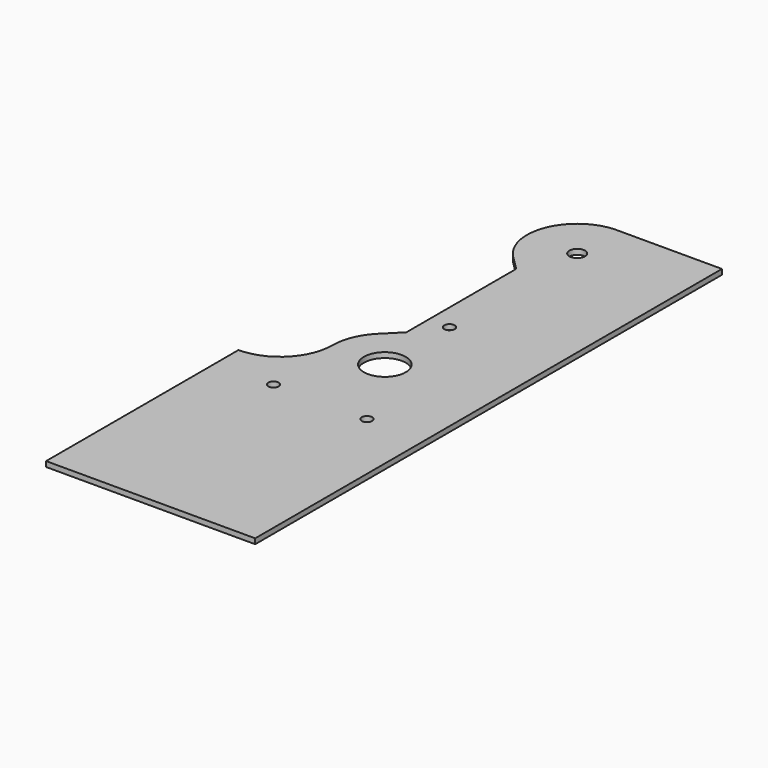
from build123d import *

# Parameters (mm, degrees)
F0_W     = 127
F0_H     = 252.73
F1_DEPTH = 3.175
F2_R     = 12.7
F2_R_2   = 3.175
F2_R_3   = 4.7625
F3_DEPTH = 3.176
F4_W     = 127
F4_H     = 3.175
F5_DEPTH = 101.6


with BuildPart() as f1:
    # F0 (on Top) → F1 (new body)
    with BuildSketch(Plane.XY):
        Rectangle(F0_W, F0_H)
    extrude(amount=F1_DEPTH)

    # F2 (on face) → F3 (cut, through all)
    with BuildSketch(Plane.XY.offset(3.175)):
        with BuildLine():
            Line((-12.7, 65.405), (-21.59, 74.295))
            ThreePointArc((-21.59, 74.295), (-28.540289, 106.734338), (-1.796051, 126.365))
            Line((-1.796051, 126.365), (-63.5, 126.365))
            Line((-63.5, 126.365), (-63.5, 116.205))
            Line((-63.5, 116.205), (-63.5, -69.215))
            Line((-63.5, -69.215), (-63.5, -81.915))
            ThreePointArc((-63.5, -81.915), (-41.04936, -72.61564), (-31.75, -50.165))
            ThreePointArc((-31.75, -50.165), (-29.333175, -38.014801), (-22.45064, -27.71436))
            Line((-22.45064, -27.71436), (-12.7, -17.963719))
            Line((-12.7, -17.963719), (-12.7, 65.405))
        make_face()
        with Locations((0, -50.165)):
            Circle(F2_R)
        with Locations((28.3845, -99.219948)):
            Circle(F2_R_2)
        with Locations((-28.3845, -99.219948)):
            Circle(F2_R_2)
        with Locations((0, -1.110052)):
            Circle(F2_R_2)
        with Locations((0, 95.885)):
            Circle(F2_R_3)
    extrude(amount=-F3_DEPTH, mode=Mode.SUBTRACT)

    # F4 (on face) → F5 (join)
    with BuildSketch(Plane.XZ.offset(126.365)):
        with Locations((0, 1.5875)):
            Rectangle(F4_W, F4_H)
    extrude(amount=F5_DEPTH)


solid = f1.part
